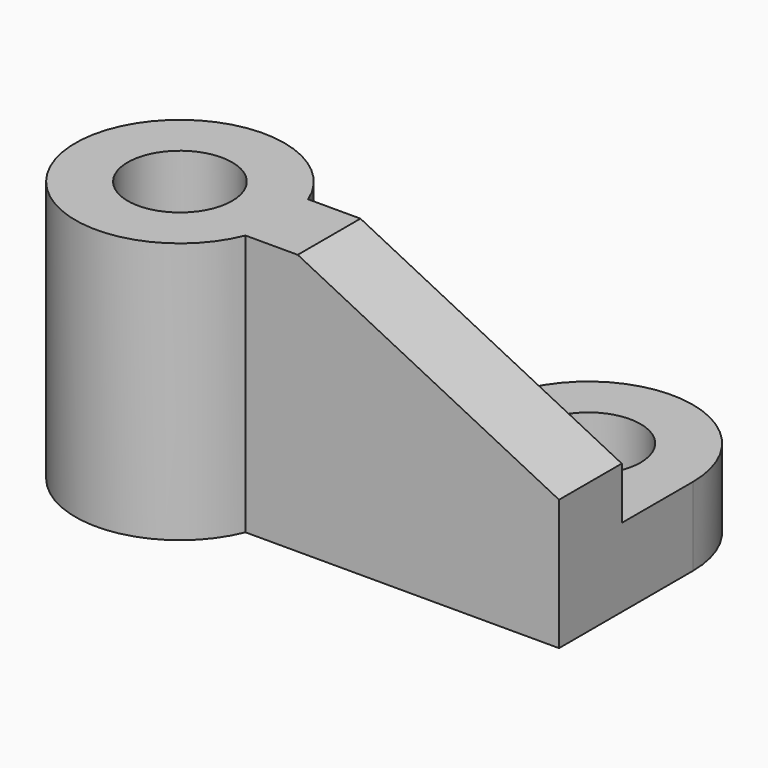
from build123d import *

# Parameters (mm, degrees)
F0_R     = 10
F1_DEPTH = 50
F2_R     = 10
F3_DEPTH = 50.001
F5_DEPTH = 35
F7_DEPTH = 27.501


with BuildPart() as f1:
    # F0 (on Top) → F1 (new body)
    with BuildSketch(Plane.XY):
        with BuildLine():
            Line((-60, 0), (0, 0))
            Line((0, 0), (0, 32))
            ThreePointArc((0, 32), (-15.646012, 51.520317), (-38.104279, 40.499123))
            ThreePointArc((-38.104279, 40.499123), (-52.271806, 26.921947), (-71.886688, 26.360722))
            ThreePointArc((-71.886688, 26.360722), (-96.772615, -0.721304), (-60, 0))
        make_face()
        with Locations((-20, 32)):
            Circle(F0_R, mode=Mode.SUBTRACT)
    extrude(amount=F1_DEPTH)

    # F2 (on face) → F3 (cut, through all)
    with BuildSketch(Plane.XY.offset(50)):
        with Locations((-78.540496, 7.5)):
            Circle(F2_R)
    extrude(amount=-F3_DEPTH, mode=Mode.SUBTRACT)

    # F4 (on face) → F5 (cut)
    with BuildSketch(Plane.XY.offset(50)):
        with BuildLine():
            ThreePointArc((-75.410873, 27.253619), (-66.093154, 23.15451), (-60, 15))
            Line((-60, 15), (0, 15))
            Line((0, 15), (0, 64.447676))
            Line((0, 64.447676), (-75.410873, 64.447676))
            Line((-75.410873, 64.447676), (-75.410873, 27.253619))
        make_face()
    extrude(amount=-F5_DEPTH, mode=Mode.SUBTRACT)

    # F6 (on face) → F7 (cut, through all)
    with BuildSketch(Plane(origin=(0, 15, 0), x_dir=(-1, 0, 0), z_dir=(0, 1, 0))):
        Polygon((0, 50), (0, 25), (50, 50), align=None)
    extrude(amount=-F7_DEPTH, mode=Mode.SUBTRACT)


solid = f1.part
